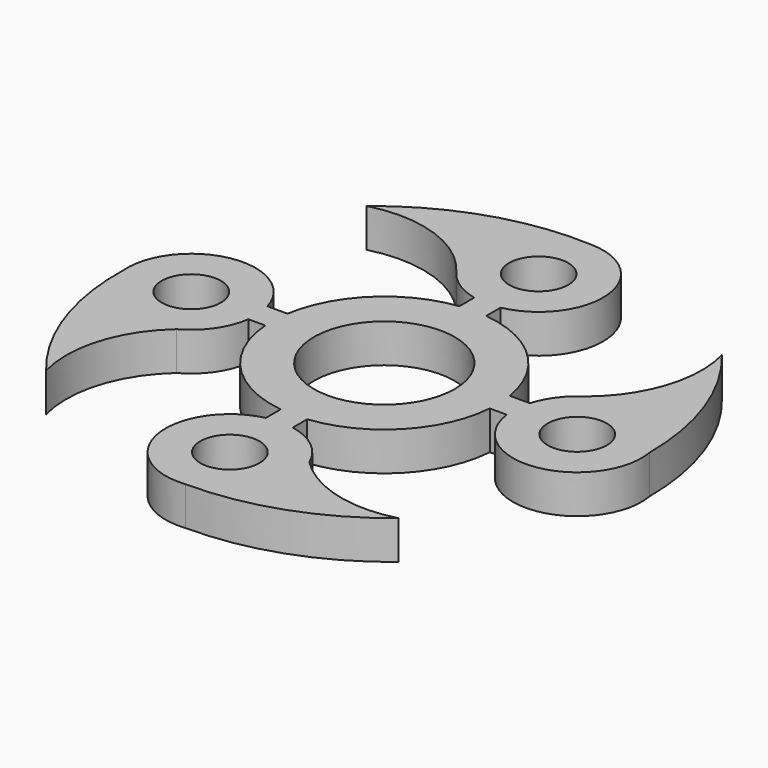
from build123d import *

# Parameters (mm, degrees)
F0_R     = 4.6
F1_DEPTH = 6


with BuildPart() as f1:
    # F0 (on Top) → F1 (new body)
    with BuildSketch(Plane.XY):
        with BuildLine():
            Line((-3.835263, 11.453191), (-6.956952, 11.453191))
            ThreePointArc((-6.956952, 11.453191), (-12.171535, 21.34111), (-22.30763, 26.055174))
            Line((-22.30763, 26.055174), (-22.30763, 28.849207))
            ThreePointArc((-22.30763, 28.849207), (-14.273609, 39.557847), (-24.089576, 48.660991))
            ThreePointArc((-24.089576, 48.660991), (-38.744791, 46.699688), (-51.687419, 39.550535))
            ThreePointArc((-51.687419, 39.550535), (-40.817893, 39.09419), (-32.137532, 32.53628))
            ThreePointArc((-32.137532, 32.53628), (-29.6046, 30.226964), (-26.440622, 28.908657))
            Line((-26.440622, 28.908657), (-26.440622, 26.021567))
            ThreePointArc((-26.440622, 26.021567), (-36.396821, 21.242619), (-41.508703, 11.453191))
            Line((-41.508703, 11.453191), (-44.630581, 11.453191))
            ThreePointArc((-44.630581, 11.453191), (-56.023815, 18.500421), (-64.203375, 7.890801))
            ThreePointArc((-64.203375, 7.890801), (-62.00961, -6.148342), (-55.048242, -18.535816))
            ThreePointArc((-55.048242, -18.535816), (-54.881922, -8.54392), (-49.480328, -0.136279))
            ThreePointArc((-49.480328, -0.136279), (-46.002187, 2.983046), (-44.320674, 7.341964))
            Line((-44.320674, 7.341964), (-41.683017, 7.341964))
            ThreePointArc((-41.683017, 7.341964), (-36.918861, -3.393255), (-26.440622, -8.698781))
            Line((-26.440622, -8.698781), (-26.440622, -11.584638))
            ThreePointArc((-26.440622, -11.584638), (-34.099904, -22.965024), (-23.192165, -31.283619))
            ThreePointArc((-23.192165, -31.283619), (-9.507609, -28.968498), (2.563115, -22.118353))
            ThreePointArc((2.563115, -22.118353), (-6.872057, -22.110914), (-15.043664, -17.394201))
            ThreePointArc((-15.043664, -17.394201), (-17.94845, -13.559621), (-22.30763, -11.525085))
            Line((-22.30763, -11.525085), (-22.30763, -8.732388))
            ThreePointArc((-22.30763, -8.732388), (-11.64523, -3.496008), (-6.782638, 7.341964))
            Line((-6.782638, 7.341964), (-4.14584, 7.341964))
            ThreePointArc((-4.14584, 7.341964), (7.314918, -1.218979), (15.607742, 10.437254))
            ThreePointArc((15.607742, 10.437254), (13.246291, 23.979061), (6.441577, 35.922799))
            ThreePointArc((6.441577, 35.922799), (6.157192, 25.5554), (0.272067, 17.015545))
            ThreePointArc((0.272067, 17.015545), (-2.277652, 14.600662), (-3.835263, 11.453191))
        make_face()
        with Locations((-24.23316, -21.337951)):
            Circle(F0_R, mode=Mode.SUBTRACT)
        with Locations((-54.23316, 8.662049)):
            Circle(F0_R, mode=Mode.SUBTRACT)
        with BuildLine():
            ThreePointArc((-33.974619, 3.661393), (-26.80478, 19.305056), (-13.282827, 8.661393))
            ThreePointArc((-13.282827, 8.661393), (-21.660874, -1.98227), (-33.974619, 3.661393))
        make_face(mode=Mode.SUBTRACT)
        with Locations((5.766856, 8.660469)):
            Circle(F0_R, mode=Mode.SUBTRACT)
        with Locations((-24.233404, 38.662025)):
            Circle(F0_R, mode=Mode.SUBTRACT)
    extrude(amount=F1_DEPTH)


solid = f1.part
